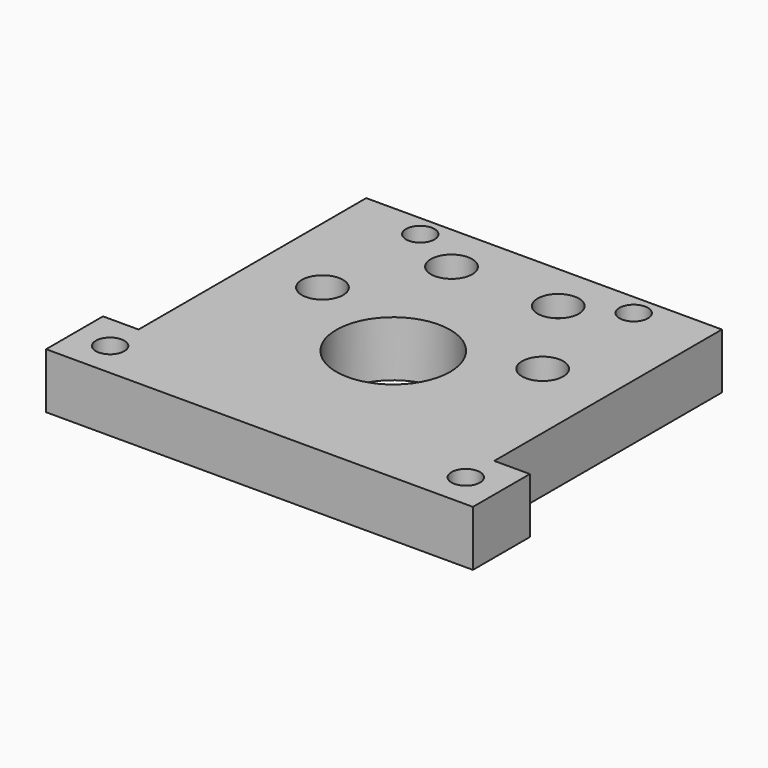
from build123d import *

# Parameters (mm, degrees)
F0_R     = 2
F0_R_2   = 8
F0_R_3   = 1.75
F1_DEPTH = 7.8
F2_R     = 2.9
F3_DEPTH = 3


with BuildPart() as f1:
    # F0 (on Top) → F1 (new body)
    with BuildSketch(Plane.XY):
        Polygon((-25, -23.5), (25, -23.5), (30, -23.5), (30, -13.5), (25, -13.5), (25, 26.5), (-25, 26.5), (-25, -13.5), (-30, -13.5), (-30, -23.5), align=None)
        with Locations((-25, -18.5)):
            Circle(F0_R, mode=Mode.SUBTRACT)
        with Locations((25, -18.5)):
            Circle(F0_R, mode=Mode.SUBTRACT)
        Circle(F0_R_2, mode=Mode.SUBTRACT)
        with Locations((-15.476067, 6.911409)):
            Circle(F0_R_3, mode=Mode.SUBTRACT)
        with Locations((-7.5, 19.615045)):
            Circle(F0_R_3, mode=Mode.SUBTRACT)
        with Locations((-15, 23.5)):
            Circle(F0_R, mode=Mode.SUBTRACT)
        with Locations((15.476067, 6.911409)):
            Circle(F0_R_3, mode=Mode.SUBTRACT)
        with Locations((7.5, 19.615045)):
            Circle(F0_R_3, mode=Mode.SUBTRACT)
        with Locations((15, 23.5)):
            Circle(F0_R, mode=Mode.SUBTRACT)
    extrude(amount=F1_DEPTH)

    # F2 (on face) → F3 (cut)
    with BuildSketch(Plane.XY.offset(7.8)):
        with Locations((-7.5, 19.615045)):
            Circle(F2_R)
        with Locations((7.5, 19.615045)):
            Circle(F2_R)
        with Locations((15.476067, 6.911409)):
            Circle(F2_R)
        with Locations((-15.476067, 6.911409)):
            Circle(F2_R)
    extrude(amount=-F3_DEPTH, mode=Mode.SUBTRACT)


solid = f1.part
